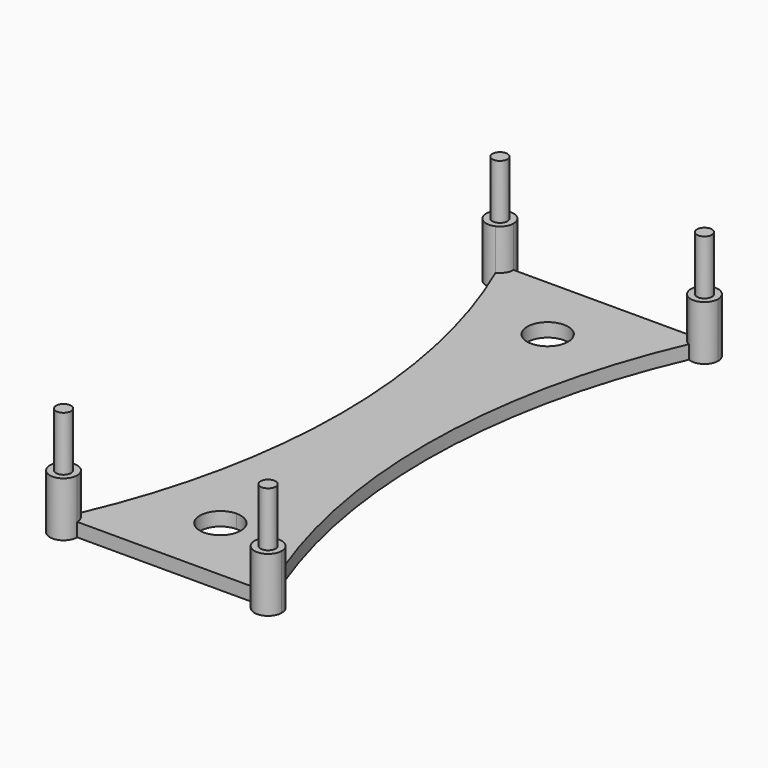
from build123d import *

# Parameters (mm, degrees)
F1_DEPTH  = 1
F2_DEPTH  = 4
F3_DEPTH  = 4
F4_R      = 0.55
F5_DEPTH  = 4
F6_R      = 0.55
F7_DEPTH  = 4
F8_R      = 0.55
F9_DEPTH  = 4
F10_R     = 0.55
F11_DEPTH = 4


with BuildPart() as f1:
    # F0 (on Top) → F1 (new body)
    with BuildSketch(Plane.XY):
        with BuildLine():
            Line((-6.5, -20), (6.5, -20))
            ThreePointArc((6.5, -20), (6.660315, -19.456926), (7.089859, -19.087978))
            ThreePointArc((7.089859, -19.087978), (3.1, 0), (7.089859, 19.087978))
            ThreePointArc((7.089859, 19.087978), (6.660315, 19.456926), (6.5, 20))
            Line((6.5, 20), (-6.5, 20))
            ThreePointArc((-6.5, 20), (-6.660315, 19.456926), (-7.089859, 19.087978))
            ThreePointArc((-7.089859, 19.087978), (-3.1, 0), (-7.089859, -19.087978))
            ThreePointArc((-7.089859, -19.087978), (-6.660315, -19.456926), (-6.5, -20))
        make_face()
        with BuildLine():
            ThreePointArc((1.5, -15), (-1.06066, -16.06066), (0, -13.5))
            ThreePointArc((0, -13.5), (1.06066, -13.93934), (1.5, -15))
        make_face(mode=Mode.SUBTRACT)
        with BuildLine():
            ThreePointArc((1.5, 15), (1.06066, 13.93934), (0, 13.5))
            ThreePointArc((0, 13.5), (-1.06066, 16.06066), (1.5, 15))
        make_face(mode=Mode.SUBTRACT)
    extrude(amount=F1_DEPTH)

    # F0 (on Top) → F2 (join)
    with BuildSketch(Plane.XY):
        with BuildLine():
            ThreePointArc((6.5, 20), (6.660315, 19.456926), (7.089859, 19.087978))
            ThreePointArc((7.089859, 19.087978), (8.043074, 19.160315), (8.5, 20))
            ThreePointArc((8.5, 20), (7.5, 21), (6.5, 20))
        make_face()
    extrude(amount=F2_DEPTH)

    # F0 (on Top) → F3 (join)
    with BuildSketch(Plane.XY):
        with BuildLine():
            ThreePointArc((-6.5, 20), (-8.339685, 20.543074), (-7.089859, 19.087978))
            ThreePointArc((-7.089859, 19.087978), (-6.660315, 19.456926), (-6.5, 20))
        make_face()
        with BuildLine():
            ThreePointArc((7.089859, -19.087978), (6.660315, -19.456926), (6.5, -20))
            ThreePointArc((6.5, -20), (7.5, -21), (8.5, -20))
            ThreePointArc((8.5, -20), (8.043074, -19.160315), (7.089859, -19.087978))
        make_face()
        with BuildLine():
            ThreePointArc((-7.089859, -19.087978), (-8.339685, -20.543074), (-6.5, -20))
            ThreePointArc((-6.5, -20), (-6.660315, -19.456926), (-7.089859, -19.087978))
        make_face()
    extrude(amount=F3_DEPTH)

    # F4 (on face) → F5 (join)
    with BuildSketch(Plane.XY.offset(4)):
        with Locations((7.5, 20)):
            Circle(F4_R)
    extrude(amount=F5_DEPTH)

    # F6 (on face) → F7 (join)
    with BuildSketch(Plane.XY.offset(4)):
        with Locations((-7.5, 20)):
            Circle(F6_R)
    extrude(amount=F7_DEPTH)

    # F8 (on face) → F9 (join)
    with BuildSketch(Plane.XY.offset(4)):
        with Locations((7.5, -20)):
            Circle(F8_R)
    extrude(amount=F9_DEPTH)

    # F10 (on face) → F11 (join)
    with BuildSketch(Plane.XY.offset(4)):
        with Locations((-7.5, -20)):
            Circle(F10_R)
    extrude(amount=F11_DEPTH)


solid = f1.part
